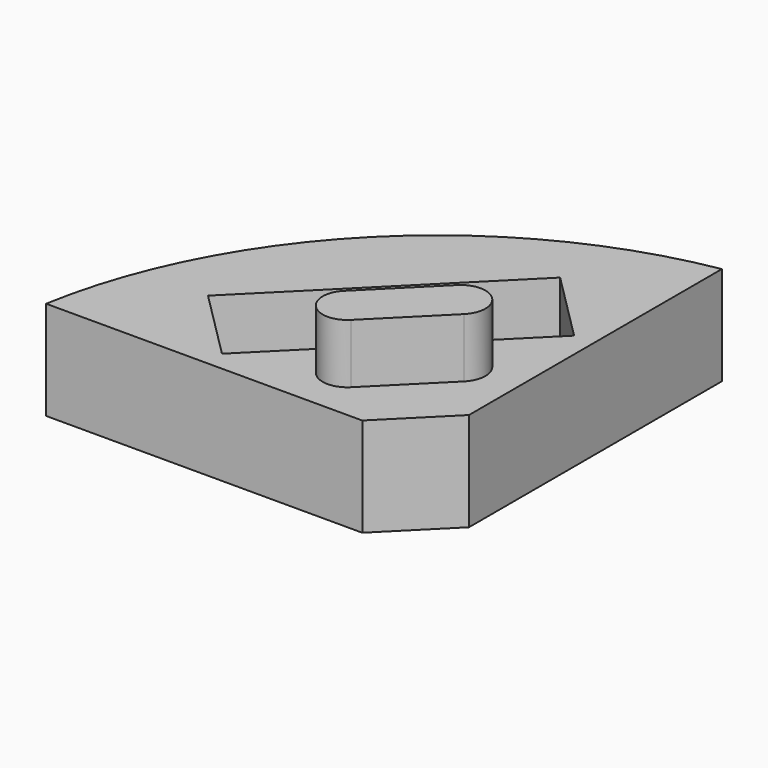
from build123d import *

# Parameters (mm, degrees)
F1_DEPTH = 5
F3_DEPTH = 4.5
F5_DEPTH = 3
F6_R     = 1.5
F7_DEPTH = 8.001


with BuildPart() as f1:
    # F0 (on Top) → F1 (new body)
    with BuildSketch(Plane.XY):
        with BuildLine():
            Line((-3, 0), (0, 3))
            Line((0, 3), (0, 19))
            ThreePointArc((0, 19), (-12.510187, 12.510187), (-19, 0))
            Line((-19, 0), (-3, 0))
        make_face()
    extrude(amount=F1_DEPTH)

    # F2 (on face) → F3 (cut)
    with BuildSketch(Plane.XY.offset(5)):
        Polygon((-10.899495, 1), (-1, 10.899495), (-4.535534, 14.435029), (-14.435029, 4.535534), align=None)
    extrude(amount=-F3_DEPTH, mode=Mode.SUBTRACT)

    # F4 (on face) → F5 (join)
    with BuildSketch(Plane.XY.offset(5)):
        with BuildLine():
            Line((-3.713925, 6.892677), (-6.895905, 3.710697))
            ThreePointArc((-6.895905, 3.710697), (-6.895098, 1.942122), (-5.126524, 1.944544))
            Line((-5.126524, 1.944544), (-1.944544, 5.126524))
            ThreePointArc((-1.944544, 5.126524), (-1.945351, 6.895099), (-3.713925, 6.892677))
        make_face()
    extrude(amount=F5_DEPTH)

    # F6 (on face) → F7 (cut, through all)
    with BuildSketch(Plane.XY):
        with Locations((-7.778175, 7.778175)):
            Circle(F6_R)
    extrude(amount=F7_DEPTH, mode=Mode.SUBTRACT)


solid = f1.part
